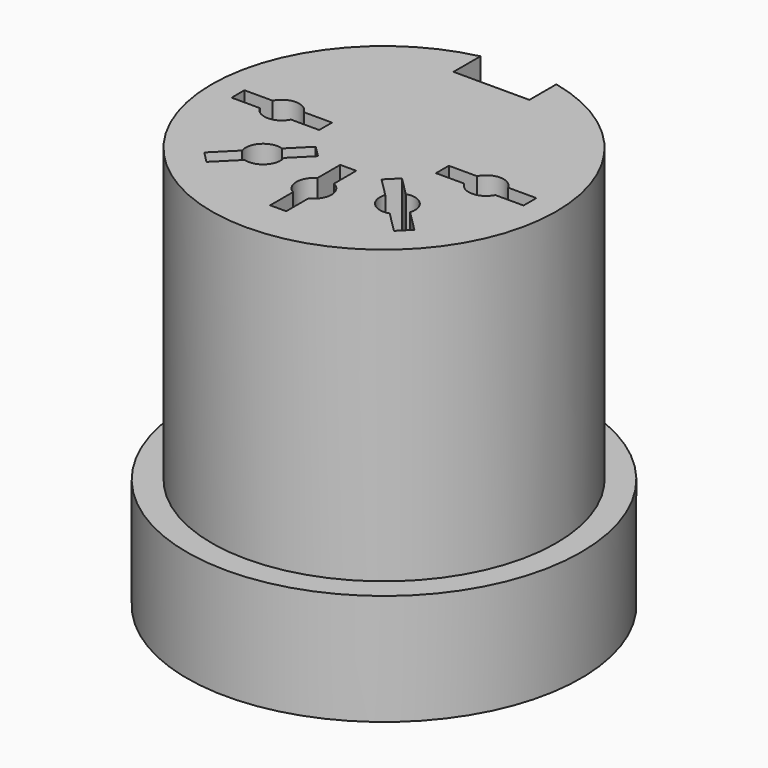
from build123d import *

# Parameters (mm, degrees)
CYLINDER018_R           = 5.9
CYLINDER018_DEPTH       = 13.8
CYLINDER020_R           = 0.6
CYLINDER020_DEPTH       = 16
CYLINDER021_R           = 0.6
CYLINDER021_DEPTH       = 16
BOX008_W                = 1.3
BOX008_H                = 2.6
BOX008_DEPTH            = 11
CYLINDER022_R           = 0.6
CYLINDER022_DEPTH       = 16
CYLINDER023_R           = 0.6
CYLINDER023_DEPTH       = 16
CYLINDER024_R           = 0.6
CYLINDER024_DEPTH       = 16
CYLINDER026_W           = 6.75
CYLINDER026_H           = 3
CYLINDER026_ANGLE       = 262
BOX010_W                = 4.4
BOX010_H                = 10.19
BOX010_DEPTH            = 2
CYLINDER027_R           = 6.75
CYLINDER027_DEPTH       = 1
BOX011_W                = 3
BOX011_H                = 0.55
BOX011_DEPTH            = 14
BOX012_W                = 3
BOX012_H                = 0.55
BOX012_DEPTH            = 14
BOX013_W                = 3
BOX013_H                = 0.55
BOX013_DEPTH            = 14
BOX014_W                = 3
BOX014_H                = 0.55
BOX014_DEPTH            = 14
BOX015_W                = 3
BOX015_H                = 0.55
BOX015_DEPTH            = 14
BOX007_W                = 5
BOX007_H                = 11
BOX007_DEPTH            = 3
BODY018_PLACEMENT_ANGLE = 90


with BuildPart() as part:
    # Cylinder018 → Cylinder018 (join)
    with BuildSketch(Plane.XY.offset(2)):
        Circle(CYLINDER018_R)
    extrude(amount=CYLINDER018_DEPTH)

    # Cylinder020 → Cylinder020 (cut)
    with BuildSketch(Plane(origin=(0, 3.5, 0), x_dir=(1, 0, 0), z_dir=(0, 0, 1))):
        Circle(CYLINDER020_R)
    extrude(amount=CYLINDER020_DEPTH, mode=Mode.SUBTRACT)

    # Cylinder021 → Cylinder021 (cut)
    with BuildSketch(Plane(origin=(0, -3.5, 0), x_dir=(1, 0, 0), z_dir=(0, 0, 1))):
        Circle(CYLINDER021_R)
    extrude(amount=CYLINDER021_DEPTH, mode=Mode.SUBTRACT)

    # Box008 → Box008 (cut)
    with BuildSketch(Plane(origin=(4.6, -1.3, 5), x_dir=(1, 0, 0), z_dir=(0, 0, 1))):
        with Locations((0.65, 1.3)):
            Rectangle(BOX008_W, BOX008_H)
    extrude(amount=BOX008_DEPTH, mode=Mode.SUBTRACT)

    # Cylinder022 → Cylinder022 (cut)
    with BuildSketch(Plane(origin=(-3, 0, 0), x_dir=(1, 0, 0), z_dir=(0, 0, 1))):
        Circle(CYLINDER022_R)
    extrude(amount=CYLINDER022_DEPTH, mode=Mode.SUBTRACT)

    # Cylinder023 → Cylinder023 (cut)
    with BuildSketch(Plane(origin=(-2.3, -2.3, 0), x_dir=(1, 0, 0), z_dir=(0, 0, 1))):
        Circle(CYLINDER023_R)
    extrude(amount=CYLINDER023_DEPTH, mode=Mode.SUBTRACT)

    # Cylinder024 → Cylinder024 (cut)
    with BuildSketch(Plane(origin=(-2.3, 2.3, 0), x_dir=(1, 0, 0), z_dir=(0, 0, 1))):
        Circle(CYLINDER024_R)
    extrude(amount=CYLINDER024_DEPTH, mode=Mode.SUBTRACT)

    # Cylinder026 → Cylinder026 (revolve)
    with BuildSketch(Plane(origin=(0, 0, 2), x_dir=(0.656059, 0.75471, 0), z_dir=(0.75471, -0.656059, 0))):
        with Locations((3.375, 1.5)):
            Rectangle(CYLINDER026_W, CYLINDER026_H)
    revolve(axis=Axis((0, 0, 2), (0, 0, 1)), revolution_arc=CYLINDER026_ANGLE)

    # Box010 → Box010 (join)
    with BuildSketch(Plane(origin=(0.03, -5.095, 2), x_dir=(1, 0, 0), z_dir=(0, 0, 1))):
        with Locations((2.2, 5.095)):
            Rectangle(BOX010_W, BOX010_H)
    extrude(amount=BOX010_DEPTH)

    # Cylinder027 → Cylinder027 (join)
    with BuildSketch(Plane.XY.offset(4.8)):
        Circle(CYLINDER027_R)
    extrude(amount=CYLINDER027_DEPTH)

    # Box011 → Box011 (cut)
    with BuildSketch(Plane(origin=(0.275, -5, 2), x_dir=(0, 1, 0), z_dir=(0, 0, 1))):
        with Locations((1.5, 0.275)):
            Rectangle(BOX011_W, BOX011_H)
    extrude(amount=BOX011_DEPTH, mode=Mode.SUBTRACT)

    # Box012 → Box012 (cut)
    with BuildSketch(Plane(origin=(-3.6, 3.2, 2), x_dir=(0.707107, -0.707107, 0), z_dir=(0, 0, 1))):
        with Locations((1.5, 0.275)):
            Rectangle(BOX012_W, BOX012_H)
    extrude(amount=BOX012_DEPTH, mode=Mode.SUBTRACT)

    # Box013 → Box013 (cut)
    with BuildSketch(Plane(origin=(-4.5, -0.25, 2), x_dir=(1, 0, 0), z_dir=(0, 0, 1))):
        with Locations((1.5, 0.275)):
            Rectangle(BOX013_W, BOX013_H)
    extrude(amount=BOX013_DEPTH, mode=Mode.SUBTRACT)

    # Box014 → Box014 (cut)
    with BuildSketch(Plane(origin=(-3.2, -3.6, 2), x_dir=(0.707107, 0.707107, 0), z_dir=(0, 0, 1))):
        with Locations((1.5, 0.275)):
            Rectangle(BOX014_W, BOX014_H)
    extrude(amount=BOX014_DEPTH, mode=Mode.SUBTRACT)

    # Box015 → Box015 (cut)
    with BuildSketch(Plane(origin=(0.275, 2, 2), x_dir=(0, 1, 0), z_dir=(0, 0, 1))):
        with Locations((1.5, 0.275)):
            Rectangle(BOX015_W, BOX015_H)
    extrude(amount=BOX015_DEPTH, mode=Mode.SUBTRACT)

    # Box007 → Box007 (cut)
    with BuildSketch(Plane(origin=(4.39, -5.5, 2), x_dir=(1, 0, 0), z_dir=(0, 0, 1))):
        with Locations((2.5, 5.5)):
            Rectangle(BOX007_W, BOX007_H)
    extrude(amount=BOX007_DEPTH, mode=Mode.SUBTRACT)


with BuildPart() as part_1:
    # Body018 placement: moved
    add(part.part.rotate(Axis((0, 0, 0), (0, 0, 1)), BODY018_PLACEMENT_ANGLE))


solid = part_1.part
